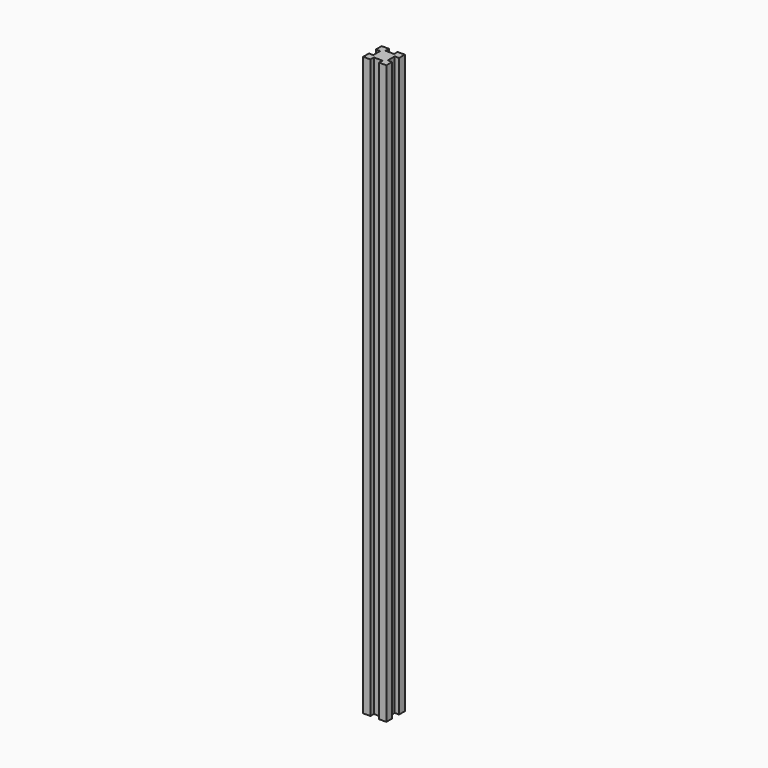
from build123d import *

# Parameters (mm, degrees)
F1_DEPTH = 1000


with BuildPart() as f1:
    # F0 (on Top) → F1 (new body)
    with BuildSketch(Plane.XY):
        Polygon((20, 7.5), (20, 20), (7.5, 20), (7.5, 12.5), (-7.5, 12.5), (-7.5, 20), (-20, 20), (-20, 7.5), (-12.5, 7.5), (-12.5, -7.5), (-20, -7.5), (-20, -20), (-7.5, -20), (-7.5, -12.5), (7.5, -12.5), (7.5, -20), (20, -20), (20, -7.5), (12.5, -7.5), (12.5, 7.5), align=None)
    extrude(amount=F1_DEPTH)


solid = f1.part
